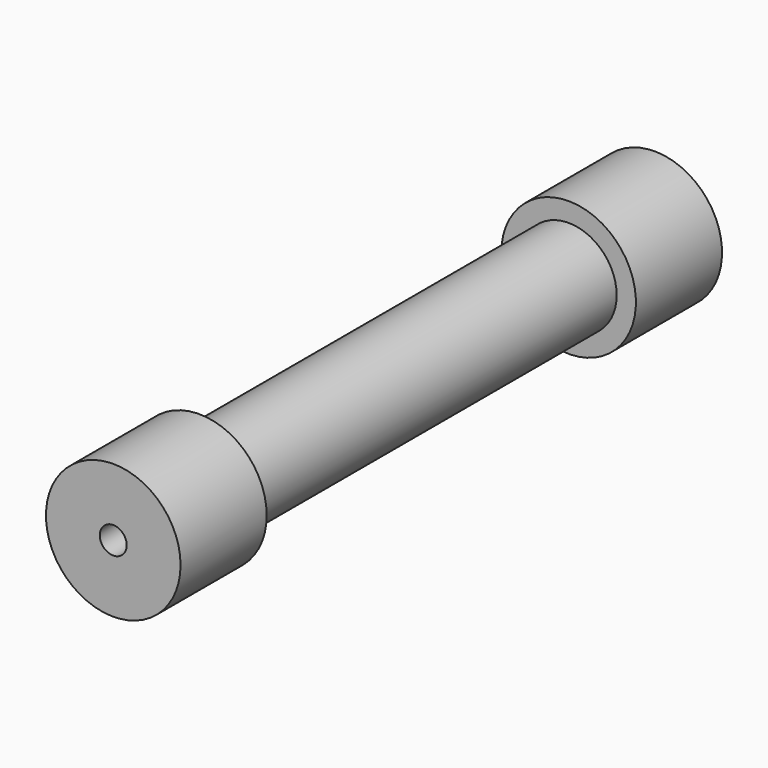
from build123d import *

# Parameters (mm, degrees)
F0_R     = 3.175
F1_DEPTH = 30.48
F3_R     = 4.445
F3_R_2   = 3.175
F4_DEPTH = 7.112
F2_R     = 3.175
F5_R     = 4.445
F5_R_2   = 3.175
F6_DEPTH = 7.112
F7_R     = 0.889
F8_DEPTH = 66.294


with BuildPart() as f1:
    # F0 (on Front) → F1 (new body)
    with BuildSketch(Plane.XZ):
        Circle(F0_R)
    extrude(amount=F1_DEPTH)

    # F2 (on face) + F5 (on face) → F6 (join)
    with BuildSketch(Plane(origin=(0, 0, 0), x_dir=(-1, 0, 0), z_dir=(0, 1, 0))):
        Circle(F2_R)
    with BuildSketch(Plane(origin=(0, 0, 0), x_dir=(-1, 0, 0), z_dir=(0, 1, 0))):
        Circle(F5_R)
        Circle(F5_R_2, mode=Mode.SUBTRACT)
    extrude(amount=F6_DEPTH)


with BuildPart() as f4:
    # F3 (on face) → F4 (new body)
    with BuildSketch(Plane.XZ.offset(30.48)):
        Circle(F3_R)
        Circle(F3_R_2, mode=Mode.SUBTRACT)
        Circle(F3_R_2)
    extrude(amount=F4_DEPTH)


with BuildPart() as f8_tool:
    # F7 (on face) → F8 (new body)
    with BuildSketch(Plane(origin=(0, 7.112, 0), x_dir=(-1, 0, 0), z_dir=(0, 1, 0))):
        Circle(F7_R)
    extrude(amount=-F8_DEPTH)


with BuildPart() as f1_1:
    add(f1.part)

    # F8: cut by f8_tool
    add(f8_tool.part, mode=Mode.SUBTRACT)


with BuildPart() as f4_1:
    add(f4.part)

    # F8: cut by f8_tool
    add(f8_tool.part, mode=Mode.SUBTRACT)


solid = Compound([f1_1.part, f4_1.part])
